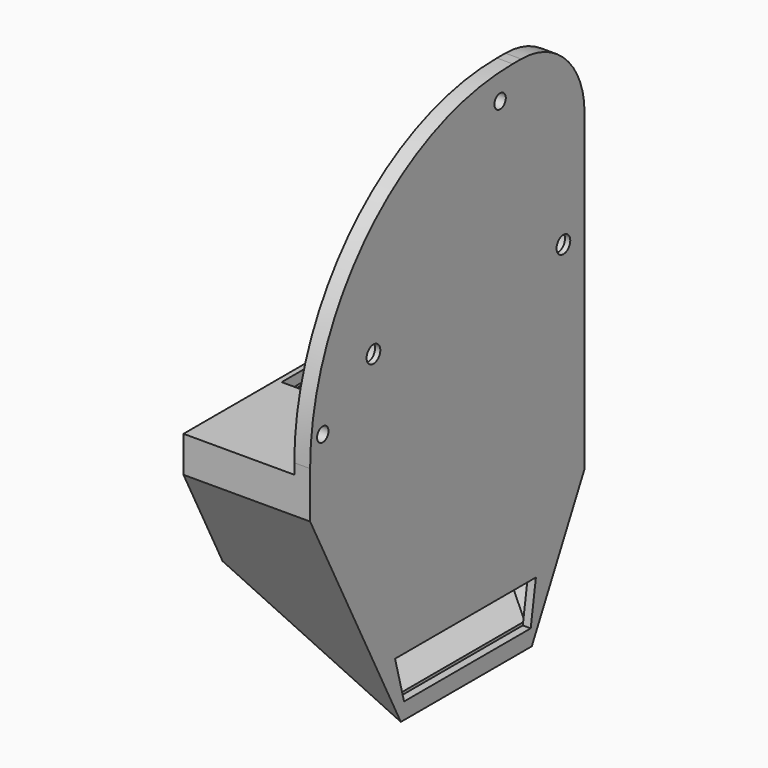
from build123d import *

# Parameters (mm, degrees)
PAD_DEPTH       = 65
SKETCH052_R     = 1.625
POCKET_DEPTH    = 5
SKETCH053_R     = 2.875
POCKET001_DEPTH = 2
SKETCH054_R     = 1.35
POCKET002_DEPTH = 5
SKETCH055_W     = 20
SKETCH055_H     = 26
POCKET003_DEPTH = 2
POCKET004_DEPTH = 24.001
POCKET005_DEPTH = 45
SKETCH058_W     = 22.635606
SKETCH058_H     = 23.579969
PAD001_DEPTH    = 1.5
PAD002_DEPTH    = 1.5
POCKET006_DEPTH = 1.5
FILLET_R        = 15
FILLET001_R     = 48


with BuildPart() as part:
    # Sketch → Pad (new body)
    with BuildSketch(Plane.XZ):
        Polygon((0, -64), (0, 35), (-3, 35), (-3, -15), (-24, -15), (-24, -40), align=None)
    extrude(amount=PAD_DEPTH)

    # Sketch052 (on Face3 of Pad) → Pocket (cut)
    with BuildSketch(Plane(origin=(-3, 0, 0), x_dir=(0, 0, -1), z_dir=(-1, 0, 0))):
        with Locations((0, 5)):
            Circle(SKETCH052_R)
        with Locations((0, 50)):
            Circle(SKETCH052_R)
    extrude(amount=-POCKET_DEPTH, mode=Mode.SUBTRACT)

    # Sketch053 (on Face9 of Pocket) → Pocket001 (cut)
    with BuildSketch(Plane(origin=(-3, 0, 0), x_dir=(0, 0, -1), z_dir=(-1, 0, 0))):
        with Locations((0, 50)):
            Circle(SKETCH053_R)
        with Locations((0, 5)):
            Circle(SKETCH053_R)
    extrude(amount=-POCKET001_DEPTH, mode=Mode.SUBTRACT)

    # Sketch054 (on Face9 of Pocket001) → Pocket002 (cut)
    with BuildSketch(Plane(origin=(-3, 0, 0), x_dir=(0, 0, -1), z_dir=(-1, 0, 0))):
        with Locations((8.5, 62)):
            Circle(SKETCH054_R)
        with Locations((-30, 20)):
            Circle(SKETCH054_R)
    extrude(amount=-POCKET002_DEPTH, mode=Mode.SUBTRACT)

    # Sketch055 (on Face12 of Pocket002) → Pocket003 (cut)
    with BuildSketch(Plane(origin=(0, 0, -15), x_dir=(-1, 0, 0), z_dir=(0, 0, 1))):
        with Locations((13, 30)):
            Rectangle(SKETCH055_W, SKETCH055_H)
    extrude(amount=-POCKET003_DEPTH, mode=Mode.SUBTRACT)

    # Sketch056 (on Face10 of Pocket003) → Pocket004 (cut, through all)
    with BuildSketch(Plane(origin=(-24, 0, 0), x_dir=(0, 0, -1), z_dir=(-1, 0, 0))):
        Polygon((20, 65.935591), (65, 43), (65, 13), (20, -9.935591), (140.441742, -9.935591), (140.441742, 74.581261), align=None)
    extrude(amount=-POCKET004_DEPTH, mode=Mode.SUBTRACT)

    # Sketch057 (on Face3 of Pocket004) → Pocket005 (cut)
    with BuildSketch(Plane(origin=(0, 0, 0), x_dir=(1, 0, 0), z_dir=(0, 1, 0))):
        Polygon((-22.5, 16.5), (-1.5, 16.5), (-1.5, 60.37868), (-22.5, 39.37868), align=None)
    extrude(amount=-POCKET005_DEPTH, mode=Mode.SUBTRACT)

    # Sketch058 (on Face3 of Pocket005) → Pad001 (join)
    with BuildSketch(Plane(origin=(0, 0, 0), x_dir=(1, 0, 0), z_dir=(0, 1, 0))):
        with Locations((-12.082939, 27.703805)):
            Rectangle(SKETCH058_W, SKETCH058_H)
    extrude(amount=-PAD001_DEPTH)

    # Sketch059 (on Face2 of Pad001) → Pad002 (join)
    with BuildSketch(Plane(origin=(0, 15.978418, -8.143877), x_dir=(1, 0, 0), z_dir=(0, 0.890951, -0.4541))):
        Polygon((-0.967459, 35.017357), (-0.967459, 60.181422), (-23.34556, 35.017357), align=None)
    extrude(amount=-PAD002_DEPTH)

    # Sketch060 (on Face1 of Pad002) → Pocket006 (cut)
    with BuildSketch(Plane(origin=(0, 0, 0), x_dir=(0, 0, 1), z_dir=(1, 0, 0))):
        Polygon((-60.897689, 42.750073), (-52.897689, 44.883326), (-52.897689, 11.516028), (-60.897689, 12.750073), align=None)
    extrude(amount=-POCKET006_DEPTH, mode=Mode.SUBTRACT)

    # Fillet
    fillet_edges = [part.edges().sort_by_distance(p)[0] for p in [
        (-1.5, 0, 35),
    ]]
    fillet(fillet_edges, radius=FILLET_R)

    # Fillet001
    fillet001_edges = [part.edges().sort_by_distance(p)[0] for p in [
        (-1.5, -65, 35),
    ]]
    fillet(fillet001_edges, radius=FILLET001_R)


solid = part.part
